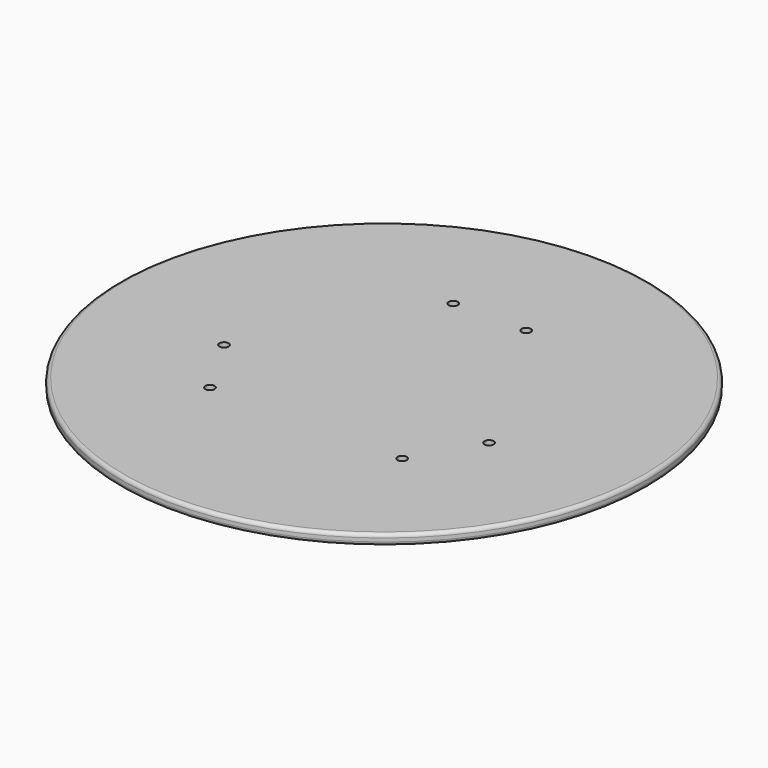
from build123d import *

# Parameters (mm, degrees)
F1_R     = 150
F1_R_2   = 2.6
F2_DEPTH = 6
F3_R     = 2


with BuildPart() as f2:
    # F1 (on Top) → F2 (new body)
    with BuildSketch(Plane.XY):
        Circle(F1_R)
        with Locations((-75.3165963029, -19.5478285501)):
            Circle(F1_R_2, mode=Mode.SUBTRACT)
        with Locations((-54.5872142647, -55.4521714499)):
            Circle(F1_R_2, mode=Mode.SUBTRACT)
        with Locations((54.5872142647, -55.4521714499)):
            Circle(F1_R_2, mode=Mode.SUBTRACT)
        with Locations((75.3165963029, -19.5478285501)):
            Circle(F1_R_2, mode=Mode.SUBTRACT)
        with Locations((-20.7293820382, 75)):
            Circle(F1_R_2, mode=Mode.SUBTRACT)
        with Locations((20.7293820382, 75)):
            Circle(F1_R_2, mode=Mode.SUBTRACT)
    extrude(amount=F2_DEPTH)

    # F3
    f3_edges = [f2.edges().sort_by_distance(p)[0] for p in [
        (-150, 0, 6),
        (-150, 0, 0),
    ]]
    fillet(f3_edges, radius=F3_R)


solid = f2.part
